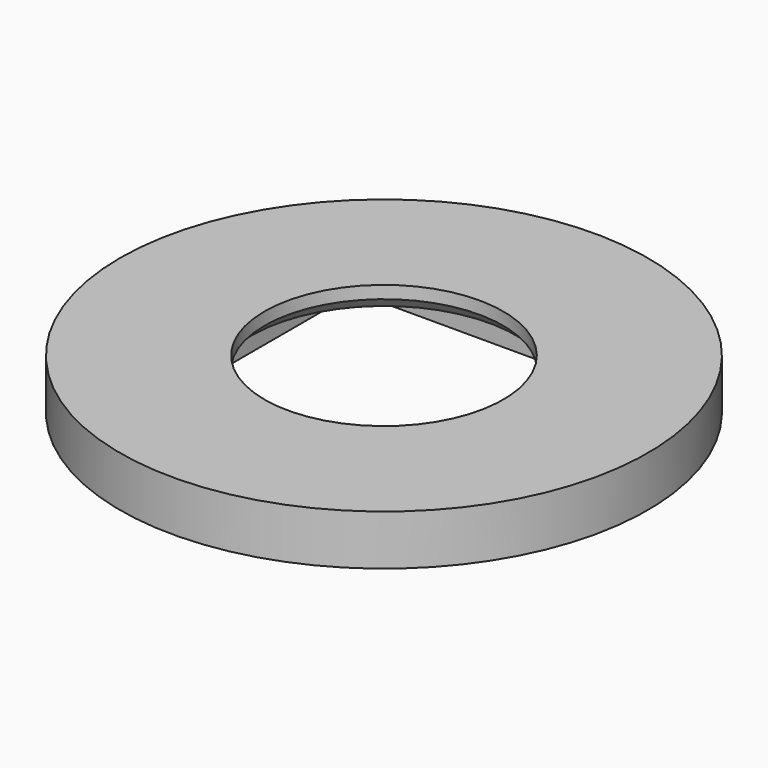
from build123d import *

# Parameters (mm, degrees)
SKETCH001_W  = 11.5
SKETCH001_H  = 4
SKETCH002_W  = 23
SKETCH002_H  = 23
POCKET_DEPTH = 2
FILLET_R     = 3
CHAMFER_SIZE = 1


with BuildPart() as part:
    # Sketch001 → Revolution001 (revolve)
    with BuildSketch(Plane.XZ):
        with Locations((-15.25, -2)):
            Rectangle(SKETCH001_W, SKETCH001_H)
    revolve(axis=Axis((0, 0, 0), (0, 0, 1)))

    # Sketch002 (on Face3 of Revolution001) → Pocket (cut)
    with BuildSketch(Plane(origin=(0, 0, -4), x_dir=(1, 0, 0), z_dir=(0, 0, -1))):
        Rectangle(SKETCH002_W, SKETCH002_H)
    extrude(amount=-POCKET_DEPTH, mode=Mode.SUBTRACT)

    # Fillet
    fillet_edges = [part.edges().sort_by_distance(p)[0] for p in [
        (-11.5, 11.5, -3),
        (11.5, 11.5, -3),
        (11.5, -11.5, -3),
        (-11.5, -11.5, -3),
    ]]
    fillet(fillet_edges, radius=FILLET_R)

    # Chamfer
    chamfer_edges = [part.edges().sort_by_distance(p)[0] for p in [
        (9.5, 0, -2),
    ]]
    chamfer(chamfer_edges, length=CHAMFER_SIZE)


solid = part.part
